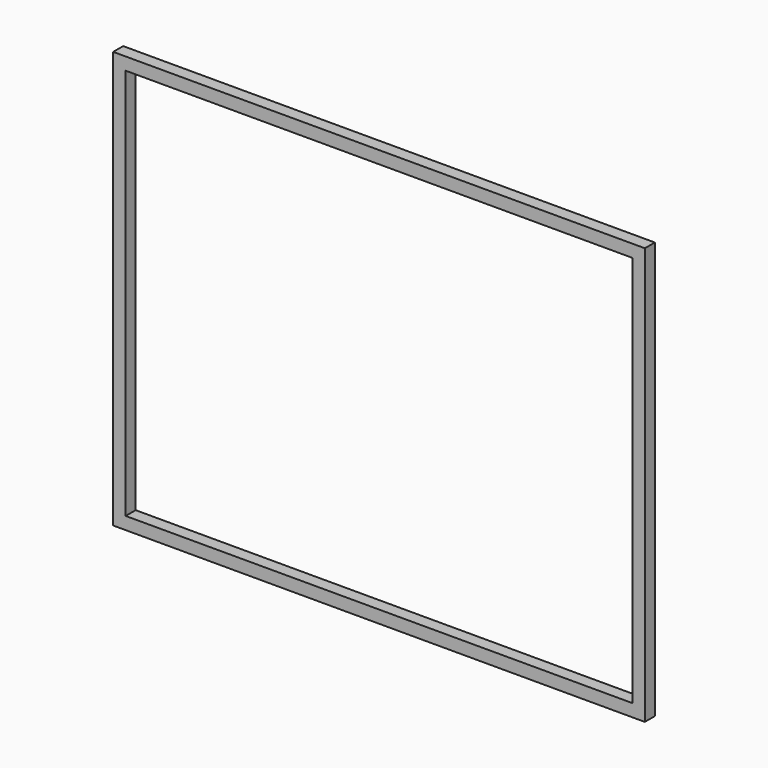
from build123d import *

# Parameters (mm, degrees)
F0_W     = 1275
F0_H     = 1000
F1_DEPTH = 30


with BuildPart() as f1:
    # F0 (on Front) → F1 (new body)
    with BuildSketch(Plane.XZ):
        with Locations((588.035809, 500)):
            Rectangle(F0_W, F0_H)
        Polygon((-19.464191, 30), (-19.464191, 970), (16.255636, 970), (66.255636, 970), (101.975464, 970), (151.975464, 970), (187.695292, 970), (237.695292, 970), (273.41512, 970), (323.41512, 970), (359.134947, 970), (409.134947, 970), (444.854775, 970), (494.854775, 970), (530.574603, 970), (580.574603, 970), (616.294431, 970), (1195.535809, 970), (1195.535809, 73.725275), (1195.535809, 30), (1188.074603, 30), (1138.074603, 30), (1102.354775, 30), (1052.354775, 30), (1016.634947, 30), (966.634947, 30), (930.91512, 30), (880.91512, 30), (845.195292, 30), (795.195292, 30), (759.475464, 30), (709.475464, 30), (673.755636, 30), (623.755636, 30), (588.035809, 30), align=None, mode=Mode.SUBTRACT)
    extrude(amount=F1_DEPTH)


solid = f1.part
